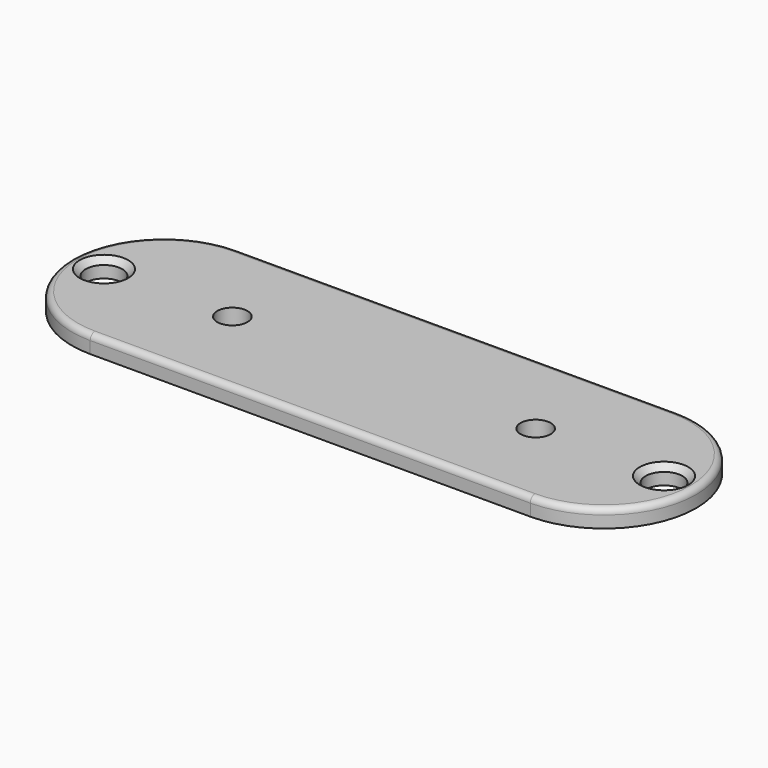
from build123d import *

# Parameters (mm, degrees)
F0_R     = 3.082436
F0_R_2   = 2.5375
F1_DEPTH = 3
F2_R     = 1
F3_SIZE  = 1


with BuildPart() as f1:
    # F0 (on Top) → F1 (new body)
    with BuildSketch(Plane.XY):
        with BuildLine():
            Line((37, 15.5), (-37, 15.5))
            ThreePointArc((-37, 15.5), (-52.5, 0), (-37, -15.5))
            Line((-37, -15.5), (37, -15.5))
            ThreePointArc((37, -15.5), (52.5, 0), (37, 15.5))
        make_face()
        with Locations((-47.09, 0)):
            Circle(F0_R, mode=Mode.SUBTRACT)
        with Locations((-25.5, 0)):
            Circle(F0_R_2, mode=Mode.SUBTRACT)
        with Locations((25.5, 0)):
            Circle(F0_R_2, mode=Mode.SUBTRACT)
        with Locations((47.09, 0)):
            Circle(F0_R, mode=Mode.SUBTRACT)
    extrude(amount=F1_DEPTH)

    # F2
    f2_edges = [f1.edges().sort_by_distance(p)[0] for p in [
        (-52.5, 0, 3),
    ]]
    fillet(f2_edges, radius=F2_R)

    # F3
    f3_edges = [f1.edges().sort_by_distance(p)[0] for p in [
        (-50.172436, 0, 3),
        (44.007564, 0, 3),
    ]]
    chamfer(f3_edges, length=F3_SIZE)


solid = f1.part
